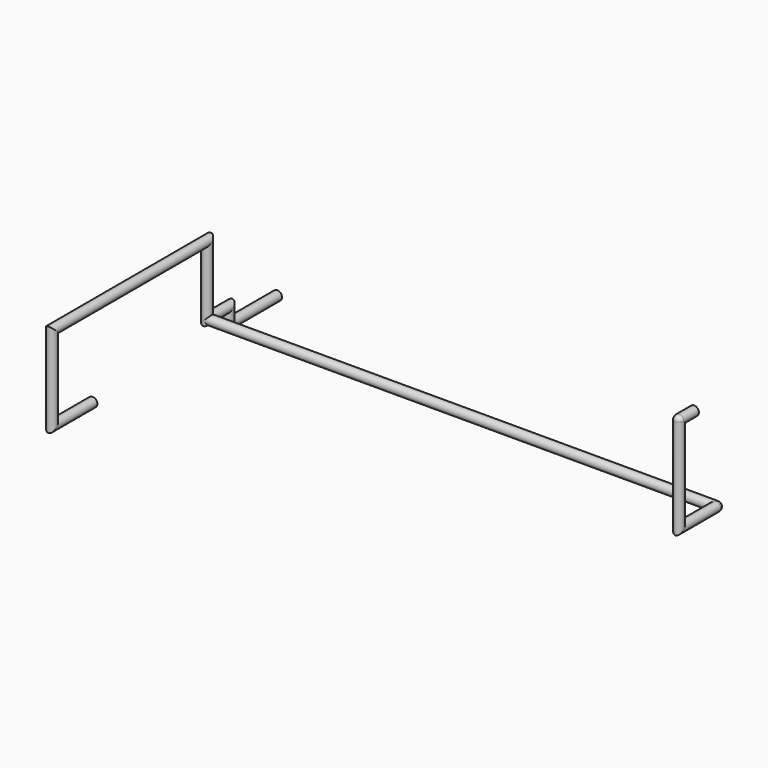
from build123d import *

# Parameters (mm, degrees)
F0_R  = 7.5
F3_R  = 7.5
F7_R  = 7.5
F11_R = 7.5


with BuildPart() as f2:
    # F2: sweep along a path in F1
    with BuildLine(Plane.YZ) as f2_path:
        Line((0, 0), (-80.781, 0))
        Line((-80.781, 0), (-80.781, 134.381))
        Line((-80.781, 134.381), (228, 134.381))
        Line((228, 134.381), (228, 24.381))
        Line((228, 24.381), (270.740032196, 24.381))
        Line((270.740032196, 24.381), (270.740032196, 0))
        Line((270.740032196, 0), (367.740032196, 0))
    # F0 (on Front) → F2 (sweep)
    with BuildSketch(Plane.XZ):
        Circle(F0_R)
    sweep(path=f2_path.line, transition=Transition.RIGHT)

    # F5: sweep along a path in F4
    with BuildLine(Plane.XZ) as f5_path:
        Line((0, 0), (810.75, 0))
    # F3 (on Right) → F5 (sweep)
    with BuildSketch(Plane.YZ):
        with Locations((228, 24.381)):
            Circle(F3_R)
    sweep(path=f5_path.line)

    # F9: sweep along a path in F8
    with BuildLine(Plane.YZ) as f9_path:
        Line((228, 24.381), (154.713, 24.381))
        Line((154.713, 24.381), (154.713, 176.355))
    # F7 (on offset) → F9 (sweep)
    with BuildSketch(Plane.XZ.offset(-228)):
        with Locations((810.75, 24.381)):
            Circle(F7_R)
    sweep(path=f9_path.line, transition=Transition.RIGHT)

    # F9_face (on face) → F13 (revolve)
    with BuildSketch(Plane(origin=(813.9330988618, 228, 24.381), x_dir=(-1, 0, 0), z_dir=(0, 1, 0))):
        with BuildLine():
            ThreePointArc((-4.3169011382, 0), (-2.1202019971, -5.3033008589), (3.1830988618, -7.5))
            Line((3.1830988618, -7.5), (3.1830988618, 7.5))
            ThreePointArc((3.1830988618, 7.5), (-2.1202019971, 5.3033008589), (-4.3169011382, 0))
        make_face()
    revolve(axis=Axis((810.75, 228, 24.381), (0, 0, 1)))

    # F14: sweep along a path in F12
    with BuildLine(Plane.XY) as f14_path:
        Line((862, 154.713), (862, 184.713))
    # F11 (on offset) → F14 (sweep)
    with BuildSketch(Plane.XZ.offset(-154.713)):
        with Locations((810.75, 176.355)):
            Circle(F11_R)
    sweep(path=f14_path.line)

    # F9_face1 (on face) → F15 (revolve)
    with BuildSketch(Plane(origin=(810.75, 151.5299011382, 176.355), x_dir=(1, 0, 0), z_dir=(0, 0, 1))):
        with BuildLine():
            ThreePointArc((-7.5, 3.1830988618), (0, -4.3169011382), (7.5, 3.1830988618))
            Line((7.5, 3.1830988618), (-7.5, 3.1830988618))
        make_face()
    revolve(axis=Axis((810.75, 154.713, 176.355), (1, 0, 0)))


solid = f2.part
